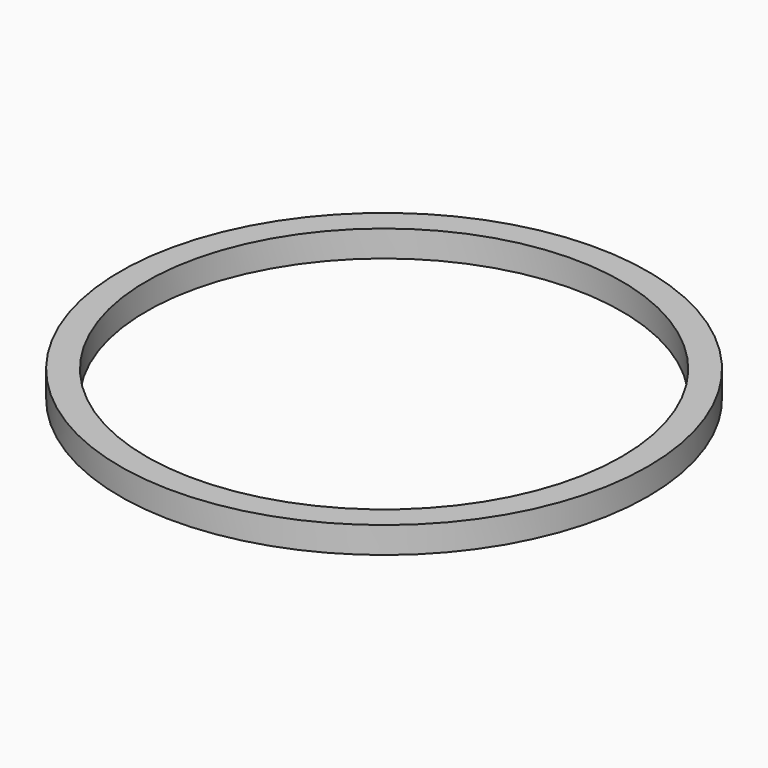
from build123d import *

# Parameters (mm, degrees)
F0_R     = 50
F2_DEPTH = 5
F1_R     = 45
F3_DEPTH = 5.001


with BuildPart() as f2:
    # F0 (on Top) → F2 (new body)
    with BuildSketch(Plane.XY):
        Circle(F0_R)
    extrude(amount=F2_DEPTH)

    # F1 (on Top) → F3 (cut, through all)
    with BuildSketch(Plane.XY):
        Circle(F1_R)
    extrude(amount=F3_DEPTH, mode=Mode.SUBTRACT)


with BuildPart() as f4_1:
    # F4: copy of F2
    add(f2.part)


solid = Compound([f2.part, f4_1.part])
